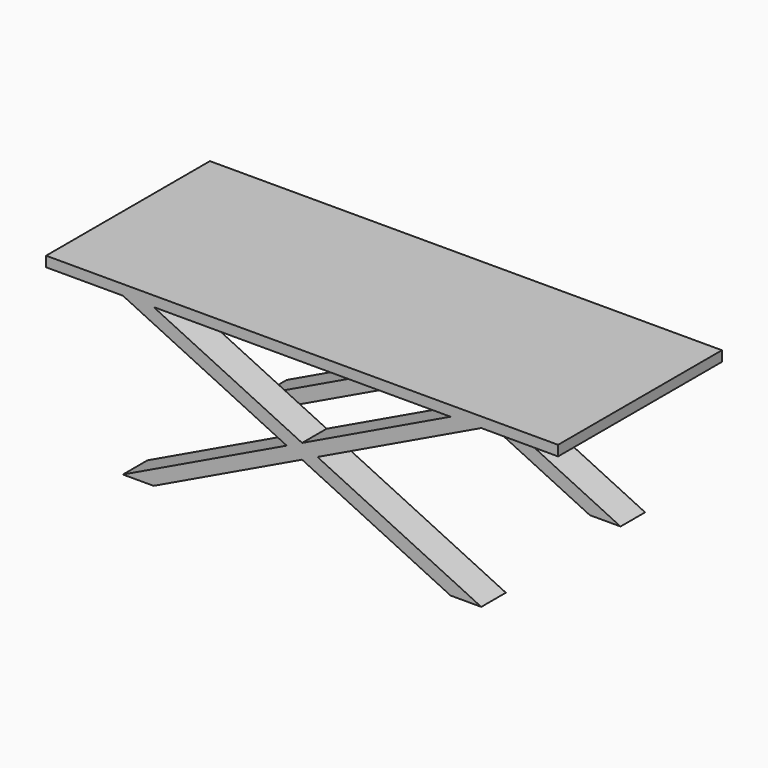
from build123d import *

# Parameters (mm, degrees)
F0_W     = 1270
F0_H     = 508
F1_DEPTH = 25.4
F2_W     = 76.2
F2_H     = 76.2
F4_W     = 76.2
F4_H     = 76.2


with BuildPart() as f1:
    # F0 (on Top) → F1 (new body)
    with BuildSketch(Plane.XY):
        Rectangle(F0_W, F0_H)
    extrude(amount=F1_DEPTH)

    # F2 (on face) → F5 section 0
    with BuildSketch(Plane(origin=(0, 0, 0), x_dir=(1, 0, 0), z_dir=(0, 0, -1))):
        with Locations((-406.4, 215.9)):
            Rectangle(F2_W, F2_H)
    # F4 (on offset) → F5 section 1
    with BuildSketch(Plane(origin=(0, 0, -390.525), x_dir=(1, 0, 0), z_dir=(0, 0, -1))):
        with Locations((406.4, 215.9)):
            Rectangle(F4_W, F4_H)
    loft()

    # F2 (on face) → F6 section 0
    with BuildSketch(Plane(origin=(0, 0, 0), x_dir=(1, 0, 0), z_dir=(0, 0, -1))):
        with Locations((-406.4, -215.9)):
            Rectangle(F2_W, F2_H)
    # F4 (on offset) → F6 section 1
    with BuildSketch(Plane(origin=(0, 0, -390.525), x_dir=(1, 0, 0), z_dir=(0, 0, -1))):
        with Locations((406.4, -215.9)):
            Rectangle(F4_W, F4_H)
    loft()

    # F2 (on face) → F7 section 0
    with BuildSketch(Plane(origin=(0, 0, 0), x_dir=(1, 0, 0), z_dir=(0, 0, -1))):
        with Locations((406.4, -215.9)):
            Rectangle(F2_W, F2_H)
    # F4 (on offset) → F7 section 1
    with BuildSketch(Plane(origin=(0, 0, -390.525), x_dir=(1, 0, 0), z_dir=(0, 0, -1))):
        with Locations((-406.4, -215.9)):
            Rectangle(F4_W, F4_H)
    loft()

    # F2 (on face) → F8 section 0
    with BuildSketch(Plane(origin=(0, 0, 0), x_dir=(1, 0, 0), z_dir=(0, 0, -1))):
        with Locations((406.4, 215.9)):
            Rectangle(F2_W, F2_H)
    # F4 (on offset) → F8 section 1
    with BuildSketch(Plane(origin=(0, 0, -390.525), x_dir=(1, 0, 0), z_dir=(0, 0, -1))):
        with Locations((-406.4, 215.9)):
            Rectangle(F4_W, F4_H)
    loft()


solid = f1.part
